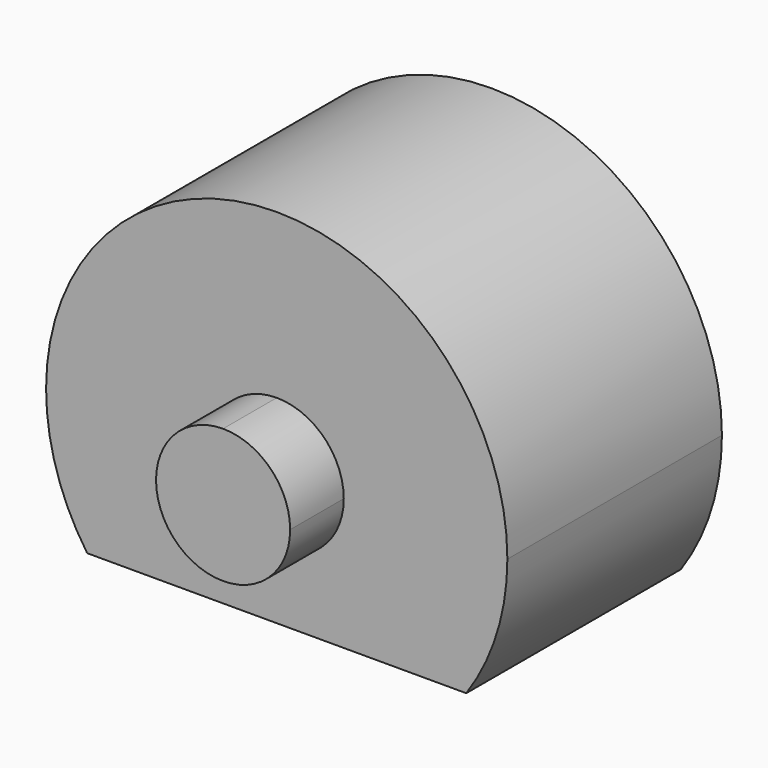
from build123d import *

# Parameters (mm, degrees)
F1_DEPTH = 6.35
F3_DEPTH = 3.175
F4_R     = 3.175
F5_DEPTH = 3.175


with BuildPart() as f1:
    # F0 (on Front) → F1 (new body, symmetric)
    with BuildSketch(Plane.XZ):
        with BuildLine():
            Line((0, 10.922), (0, 0))
            Line((0, 0), (10.922, 0))
            ThreePointArc((10.922, 0), (7.7230202641, 7.7230202641), (0, 10.922))
        make_face()
        with BuildLine():
            Line((10.922, 0), (0, 0))
            Line((0, 0), (0, -6.223))
            Line((0, -6.223), (8.9757648699, -6.223))
            ThreePointArc((8.9757648699, -6.223), (10.4240919966, -3.2601211704), (10.922, 0))
        make_face()
        with BuildLine():
            ThreePointArc((0, 10.922), (-7.7230202641, 7.7230202641), (-10.922, 0))
            Line((-10.922, 0), (0, 0))
            Line((0, 0), (0, 10.922))
        make_face()
        with BuildLine():
            Line((0, 0), (-10.922, 0))
            ThreePointArc((-10.922, 0), (-10.4240919966, -3.2601211704), (-8.9757648699, -6.223))
            Line((-8.9757648699, -6.223), (0, -6.223))
            Line((0, -6.223), (0, 0))
        make_face()
    extrude(amount=F1_DEPTH, both=True)

    # F2 (on face) → F3 (join)
    with BuildSketch(Plane.XZ.offset(6.35)):
        with BuildLine():
            Line((3.175, 0), (0, 0))
            Line((0, 0), (0, -3.175))
            ThreePointArc((0, -3.175), (2.2450640303, -2.2450640303), (3.175, 0))
        make_face()
        with BuildLine():
            Line((0, 3.175), (0, 0))
            Line((0, 0), (3.175, 0))
            ThreePointArc((3.175, 0), (2.2450640303, 2.2450640303), (0, 3.175))
        make_face()
        with BuildLine():
            ThreePointArc((0, 3.175), (-2.2450640303, 2.2450640303), (-3.175, 0))
            Line((-3.175, 0), (0, 0))
            Line((0, 0), (0, 3.175))
        make_face()
        with BuildLine():
            Line((0, 0), (-3.175, 0))
            ThreePointArc((-3.175, 0), (-2.2450640303, -2.2450640303), (0, -3.175))
            Line((0, -3.175), (0, 0))
        make_face()
    extrude(amount=F3_DEPTH)

    # F4 (on face) → F5 (join)
    with BuildSketch(Plane(origin=(0, 6.35, 0), x_dir=(-1, 0, 0), z_dir=(0, 1, 0))):
        Circle(F4_R)
    extrude(amount=F5_DEPTH)


solid = f1.part
